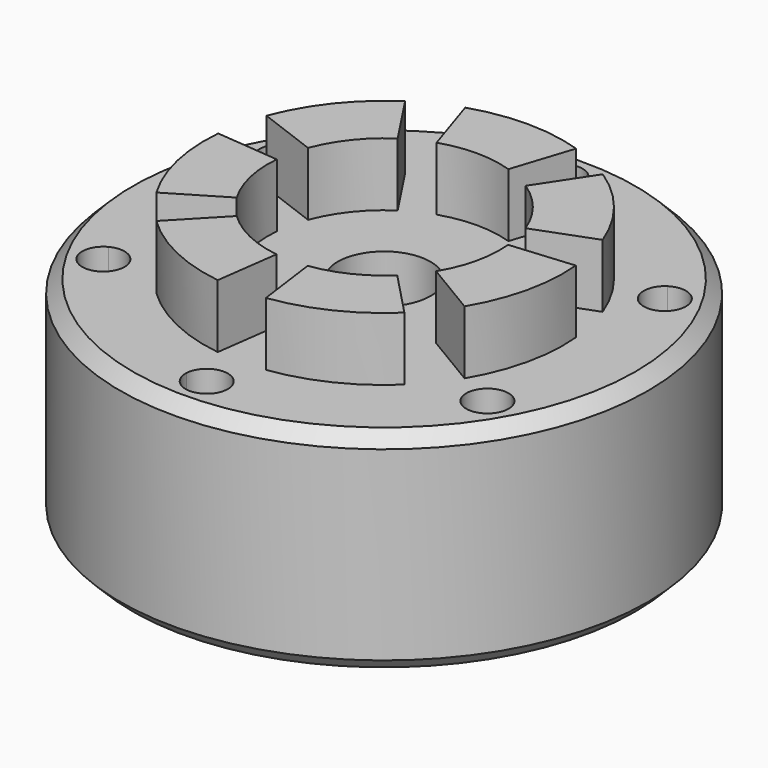
from build123d import *

# Parameters (mm, degrees)
F0_R     = 62.5
F1_DEPTH = 50
F3_DEPTH = 15
F4_R     = 11
F5_DEPTH = 50.001
F7_DEPTH = 50.001
F8_SIZE  = 3


with BuildPart() as f1:
    # F0 (on Top) → F1 (new body)
    with BuildSketch(Plane.XY):
        Circle(F0_R)
    extrude(amount=F1_DEPTH)

    # F2 (on face) → F3 (join)
    with BuildSketch(Plane.XY.offset(50)):
        with BuildLine():
            ThreePointArc((-8.5, 26.153394), (0, 27.5), (8.5, 26.153394))
            Line((8.5, 26.153394), (13.136364, 40.418881))
            ThreePointArc((13.136364, 40.418881), (0, 42.5), (-13.136364, 40.418881))
            Line((-13.136364, 40.418881), (-8.5, 26.153394))
        make_face()
        with BuildLine():
            Line((-39.791143, 14.930338), (-25.74721, 9.660807))
            ThreePointArc((-25.74721, 9.660807), (-21.500366, 17.14597), (-15.147883, 22.951942))
            Line((-15.147883, 22.951942), (-23.410365, 35.471183))
            ThreePointArc((-23.410365, 35.471183), (-33.227838, 26.498317), (-39.791143, 14.930338))
        make_face()
        with BuildLine():
            Line((-36.482379, -21.801055), (-23.606246, -14.106565))
            ThreePointArc((-23.606246, -14.106565), (-26.810518, -6.119326), (-27.389101, 2.46721))
            Line((-27.389101, 2.46721), (-42.328611, 3.81296))
            ThreePointArc((-42.328611, 3.81296), (-41.434436, -9.45714), (-36.482379, -21.801055))
        make_face()
        with BuildLine():
            Line((-5.701641, -42.115808), (-3.689297, -27.251405))
            ThreePointArc((-3.689297, -27.251405), (-11.931803, -24.776644), (-19.005768, -19.875382))
            Line((-19.005768, -19.875382), (-29.37255, -30.716499))
            ThreePointArc((-29.37255, -30.716499), (-18.440059, -38.291177), (-5.701641, -42.115808))
        make_face()
        with BuildLine():
            Line((29.37255, -30.716499), (19.005768, -19.875382))
            ThreePointArc((19.005768, -19.875382), (11.931803, -24.776644), (3.689297, -27.251405))
            Line((3.689297, -27.251405), (5.701641, -42.115808))
            ThreePointArc((5.701641, -42.115808), (18.440059, -38.291177), (29.37255, -30.716499))
        make_face()
        with BuildLine():
            Line((42.328611, 3.81296), (27.389101, 2.46721))
            ThreePointArc((27.389101, 2.46721), (26.810518, -6.119326), (23.606246, -14.106565))
            Line((23.606246, -14.106565), (36.482379, -21.801055))
            ThreePointArc((36.482379, -21.801055), (41.434436, -9.45714), (42.328611, 3.81296))
        make_face()
        with BuildLine():
            Line((23.410365, 35.471183), (15.147883, 22.951942))
            ThreePointArc((15.147883, 22.951942), (21.500366, 17.14597), (25.74721, 9.660807))
            Line((25.74721, 9.660807), (39.791143, 14.930338))
            ThreePointArc((39.791143, 14.930338), (33.227838, 26.498317), (23.410365, 35.471183))
        make_face()
    extrude(amount=F3_DEPTH)

    # F4 (on face) → F5 (cut, through all)
    with BuildSketch(Plane.XY.offset(50)):
        Circle(F4_R)
    extrude(amount=-F5_DEPTH, mode=Mode.SUBTRACT)

    # F6 (on face) → F7 (cut, through all)
    with BuildSketch(Plane.XY.offset(50)):
        with BuildLine():
            ThreePointArc((-40.466334, 26.25), (-41.077894, 28.646163), (-42.762973, 30.456167))
            ThreePointArc((-42.762973, 30.456167), (-44.164755, 28.385285), (-45.466334, 26.25))
            ThreePointArc((-45.466334, 26.25), (-46.664755, 24.055158), (-47.757301, 21.805738))
            ThreePointArc((-47.757301, 21.805738), (-42.863915, 21.980642), (-40.466334, 26.25))
        make_face()
        with BuildLine():
            ThreePointArc((-45.466334, 26.25), (-44.164755, 28.385285), (-42.762973, 30.456167))
            ThreePointArc((-42.762973, 30.456167), (-49.796461, 28.75), (-47.757301, 21.805738))
            ThreePointArc((-47.757301, 21.805738), (-46.664755, 24.055158), (-45.466334, 26.25))
        make_face()
        with BuildLine():
            ThreePointArc((4.994328, 52.261905), (4.998582, 52.380919), (5, 52.5))
            ThreePointArc((5, 52.5), (-0.119081, 57.498582), (-4.994328, 52.261905))
            ThreePointArc((-4.994328, 52.261905), (0, 52.5), (4.994328, 52.261905))
        make_face()
        with BuildLine():
            ThreePointArc((4.994328, 52.261905), (0, 52.5), (-4.994328, 52.261905))
            ThreePointArc((-4.994328, 52.261905), (0, 47.5), (4.994328, 52.261905))
        make_face()
        with BuildLine():
            ThreePointArc((-42.762973, -30.456167), (-41.077894, -28.646163), (-40.466334, -26.25))
            ThreePointArc((-40.466334, -26.25), (-42.863915, -21.980642), (-47.757301, -21.805738))
            ThreePointArc((-47.757301, -21.805738), (-46.664755, -24.055158), (-45.466334, -26.25))
            ThreePointArc((-45.466334, -26.25), (-44.164755, -28.385285), (-42.762973, -30.456167))
        make_face()
        with BuildLine():
            ThreePointArc((-45.466334, -26.25), (-46.664755, -24.055158), (-47.757301, -21.805738))
            ThreePointArc((-47.757301, -21.805738), (-49.796461, -28.75), (-42.762973, -30.456167))
            ThreePointArc((-42.762973, -30.456167), (-44.164755, -28.385285), (-45.466334, -26.25))
        make_face()
        with BuildLine():
            ThreePointArc((-4.994328, -52.261905), (-0.119081, -57.498582), (5, -52.5))
            ThreePointArc((5, -52.5), (4.998582, -52.380919), (4.994328, -52.261905))
            ThreePointArc((4.994328, -52.261905), (2.5, -52.440442), (0, -52.5))
            ThreePointArc((0, -52.5), (-2.5, -52.440442), (-4.994328, -52.261905))
        make_face()
        with BuildLine():
            ThreePointArc((0, -52.5), (2.5, -52.440442), (4.994328, -52.261905))
            ThreePointArc((4.994328, -52.261905), (0, -47.5), (-4.994328, -52.261905))
            ThreePointArc((-4.994328, -52.261905), (-2.5, -52.440442), (0, -52.5))
        make_face()
        with BuildLine():
            ThreePointArc((42.762973, -30.456167), (47.862497, -30.638439), (50.466334, -26.25))
            ThreePointArc((50.466334, -26.25), (49.735692, -23.647582), (47.757301, -21.805738))
            ThreePointArc((47.757301, -21.805738), (45.466334, -26.25), (42.762973, -30.456167))
        make_face()
        with BuildLine():
            ThreePointArc((42.762973, -30.456167), (45.466334, -26.25), (47.757301, -21.805738))
            ThreePointArc((47.757301, -21.805738), (41.136207, -23.75), (42.762973, -30.456167))
        make_face()
        with BuildLine():
            ThreePointArc((47.757301, 21.805738), (49.735692, 23.647582), (50.466334, 26.25))
            ThreePointArc((50.466334, 26.25), (47.862497, 30.638439), (42.762973, 30.456167))
            ThreePointArc((42.762973, 30.456167), (44.164755, 28.385285), (45.466334, 26.25))
            ThreePointArc((45.466334, 26.25), (46.664755, 24.055158), (47.757301, 21.805738))
        make_face()
        with BuildLine():
            ThreePointArc((45.466334, 26.25), (44.164755, 28.385285), (42.762973, 30.456167))
            ThreePointArc((42.762973, 30.456167), (41.136207, 23.75), (47.757301, 21.805738))
            ThreePointArc((47.757301, 21.805738), (46.664755, 24.055158), (45.466334, 26.25))
        make_face()
    extrude(amount=-F7_DEPTH, mode=Mode.SUBTRACT)

    # F8
    f8_edges = [f1.edges().sort_by_distance(p)[0] for p in [
        (-62.5, 0, 50),
        (-62.5, 0, 0),
    ]]
    chamfer(f8_edges, length=F8_SIZE)


solid = f1.part
